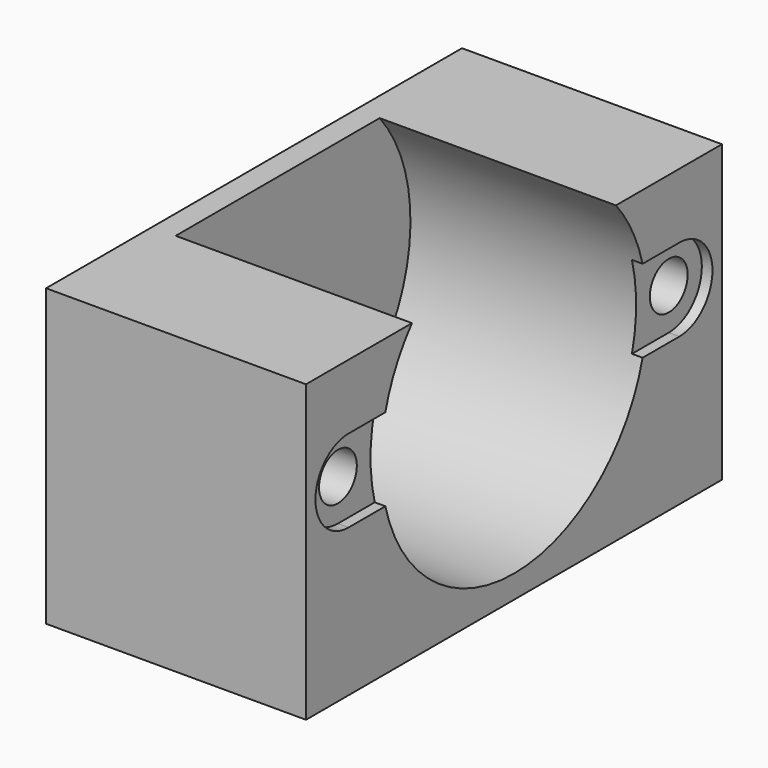
from build123d import *

# Parameters (mm, degrees)
SKETCH_W        = 22
SKETCH_H        = 44
PAD_DEPTH       = 25
SKETCH001_R     = 14.05
POCKET_DEPTH    = 20
SKETCH002_R     = 2
POCKET001_DEPTH = 4.2
POCKET002_DEPTH = 0.9
SKETCH006_R     = 2
POCKET003_DEPTH = 4.2


with BuildPart() as part:
    # Sketch → Pad (new body)
    with BuildSketch(Plane.XY):
        with Locations((-11, 0)):
            Rectangle(SKETCH_W, SKETCH_H)
    extrude(amount=PAD_DEPTH)

    # Sketch001 → Pocket (cut)
    with BuildSketch(Plane.YZ):
        with Locations((0, 16)):
            Circle(SKETCH001_R)
    extrude(amount=-POCKET_DEPTH, mode=Mode.SUBTRACT)

    # Sketch002 → Pocket001 (cut)
    with BuildSketch(Plane.YZ):
        with Locations((-17.5, 16)):
            Circle(SKETCH002_R)
        with Locations((17.5, 16)):
            Circle(SKETCH002_R)
    extrude(amount=-POCKET001_DEPTH, mode=Mode.SUBTRACT)

    # Sketch005 → Pocket002 (cut)
    with BuildSketch(Plane.YZ):
        with BuildLine():
            ThreePointArc((-17.5, 19.5), (-21, 16), (-17.5, 12.5))
            Line((-17.5, 12.5), (17.5, 12.5))
            ThreePointArc((17.5, 12.5), (21, 16), (17.5, 19.5))
            Line((17.5, 19.5), (-17.5, 19.5))
        make_face()
    extrude(amount=-POCKET002_DEPTH, mode=Mode.SUBTRACT)

    # Sketch006 → Pocket003 (cut)
    with BuildSketch(Plane.YZ.offset(-22)):
        with Locations((-17.5, 16)):
            Circle(SKETCH006_R)
        with Locations((17.5, 16)):
            Circle(SKETCH006_R)
    extrude(amount=POCKET003_DEPTH, mode=Mode.SUBTRACT)


solid = part.part
